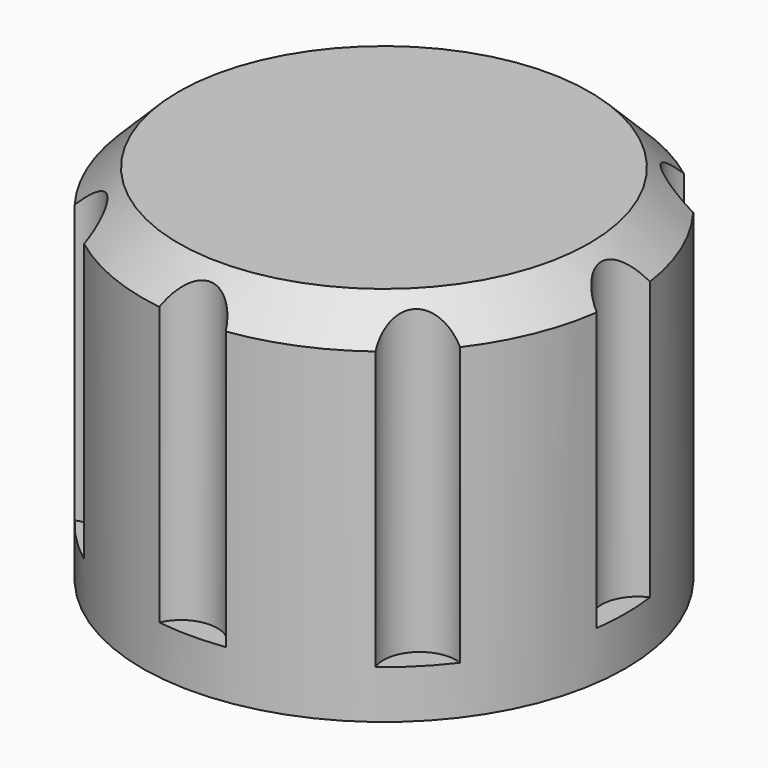
from build123d import *

# Parameters (mm, degrees)
CYLINDER001_R     = 1.5
CYLINDER001_DEPTH = 17
ARRAY_COUNT       = 8
CYLINDER_R        = 10
CYLINDER_DEPTH    = 15
CHAMFER_SIZE      = 1.5


with BuildPart() as obj1:
    # Cylinder001 → Cylinder001 (new body)
    with BuildSketch(Plane(origin=(10.5, 0, 3), x_dir=(1, 0, 0), z_dir=(0, 0, 1))):
        Circle(CYLINDER001_R)
    extrude(amount=CYLINDER001_DEPTH)

    # Array: obj1 ×8 about axis
    array_axis = Axis((0, 0, 0), (0, 0, 1))


with BuildPart() as obj1_1:
    add(obj1.part)
    for i in range(1, ARRAY_COUNT):
        add(obj1.part.rotate(array_axis, i * 360 / ARRAY_COUNT))


with BuildPart() as obj1_2:
    # Array placement: moved
    add(obj1_1.part.moved(Location((0, 0, -1))))


with BuildPart() as obj2:
    # Cylinder → Cylinder (new body)
    with BuildSketch(Plane.XY):
        Circle(CYLINDER_R)
    extrude(amount=CYLINDER_DEPTH)

    # Chamfer
    chamfer_edges = [obj2.edges().sort_by_distance(p)[0] for p in [
        (-10, 0, 15),
    ]]
    chamfer(chamfer_edges, length=CHAMFER_SIZE)

    # Cut: cut obj1
    add(obj1_2.part, mode=Mode.SUBTRACT)


solid = obj2.part
